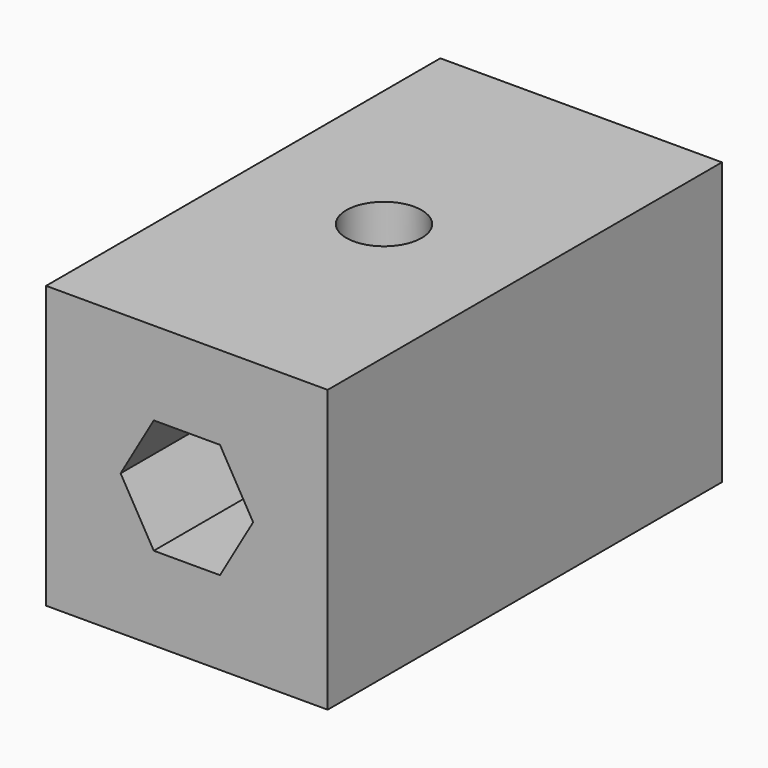
from build123d import *

# Parameters (mm, degrees)
SKETCH004_W             = 35
SKETCH004_H             = 20
PAD001_DEPTH            = 20
POCKET003_DEPTH         = 100
SKETCH007_R             = 2.675
POCKET004_DEPTH         = 100
POCKET005_DEPTH         = 10
BODY001_PLACEMENT_ANGLE = 90


with BuildPart() as part:
    # Sketch004 → Pad001 (new body)
    with BuildSketch(Plane.XY):
        Rectangle(SKETCH004_W, SKETCH004_H)
    extrude(amount=PAD001_DEPTH)

    # Sketch005 (on Face2 of Pad001) → Pocket003 (cut)
    with BuildSketch(Plane.YZ.offset(17.5)):
        Polygon((2.352702, 14.075), (-2.352702, 14.075), (-4.705405, 10), (-2.352702, 5.925), (2.352702, 5.925), (4.705405, 10), align=None)
    extrude(amount=-POCKET003_DEPTH, mode=Mode.SUBTRACT)

    # Sketch007 (on Face5 of Pocket003) → Pocket004 (cut)
    with BuildSketch(Plane.XY.offset(20)):
        Circle(SKETCH007_R)
    extrude(amount=-POCKET004_DEPTH, mode=Mode.SUBTRACT)

    # Sketch008 (on Face4 of Pocket004) → Pocket005 (cut)
    with BuildSketch(Plane(origin=(0, 0, 0), x_dir=(1, 0, 0), z_dir=(0, 0, -1))):
        Polygon((4.705405, 0), (2.352702, 4.075), (-2.352702, 4.075), (-4.705405, 0), (-2.352702, -4.075), (2.352702, -4.075), align=None)
    extrude(amount=-POCKET005_DEPTH, mode=Mode.SUBTRACT)


with BuildPart() as part_1:
    # Body001 placement: moved
    add(part.part.rotate(Axis((0, 0, 0), (0, 0, 1)), BODY001_PLACEMENT_ANGLE))


solid = part_1.part
